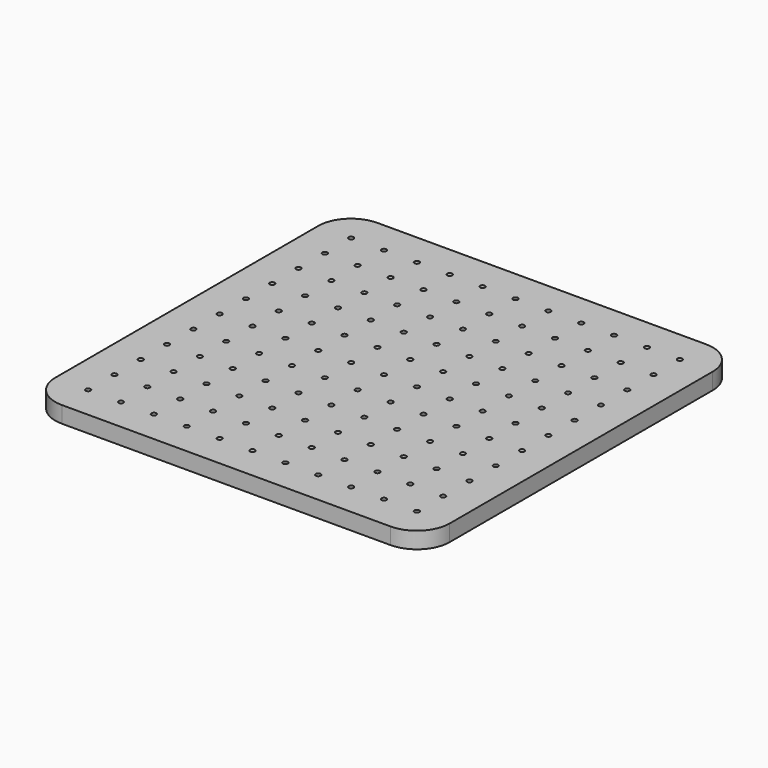
from build123d import *

# Parameters (mm, degrees)
F0_R     = 1.905
F1_DEPTH = 12.7


with BuildPart() as f1:
    # F0 (on Top) → F1 (new body)
    with BuildSketch(Plane.XY):
        with BuildLine():
            ThreePointArc((152.4, 127), (144.960512, 144.960512), (127, 152.4))
            Line((127, 152.4), (-127, 152.4))
            ThreePointArc((-127, 152.4), (-144.960512, 144.960512), (-152.4, 127))
            Line((-152.4, 127), (-152.4, -127))
            ThreePointArc((-152.4, -127), (-144.960512, -144.960512), (-127, -152.4))
            Line((-127, -152.4), (127, -152.4))
            ThreePointArc((127, -152.4), (144.960512, -144.960512), (152.4, -127))
            Line((152.4, -127), (152.4, 127))
        make_face()
        with Locations((-127, -127)):
            Circle(F0_R, mode=Mode.SUBTRACT)
        with Locations((-101.6, -127)):
            Circle(F0_R, mode=Mode.SUBTRACT)
        with Locations((-127, -101.6)):
            Circle(F0_R, mode=Mode.SUBTRACT)
        with Locations((-101.6, -101.6)):
            Circle(F0_R, mode=Mode.SUBTRACT)
        with Locations((-76.2, -127)):
            Circle(F0_R, mode=Mode.SUBTRACT)
        with Locations((-50.8, -127)):
            Circle(F0_R, mode=Mode.SUBTRACT)
        with Locations((-25.4, -127)):
            Circle(F0_R, mode=Mode.SUBTRACT)
        with Locations((-76.2, -101.6)):
            Circle(F0_R, mode=Mode.SUBTRACT)
        with Locations((-50.8, -101.6)):
            Circle(F0_R, mode=Mode.SUBTRACT)
        with Locations((-25.4, -101.6)):
            Circle(F0_R, mode=Mode.SUBTRACT)
        with Locations((-127, -76.2)):
            Circle(F0_R, mode=Mode.SUBTRACT)
        with Locations((-127, -50.8)):
            Circle(F0_R, mode=Mode.SUBTRACT)
        with Locations((-101.6, -76.2)):
            Circle(F0_R, mode=Mode.SUBTRACT)
        with Locations((-101.6, -50.8)):
            Circle(F0_R, mode=Mode.SUBTRACT)
        with Locations((-127, -25.4)):
            Circle(F0_R, mode=Mode.SUBTRACT)
        with Locations((-101.6, -25.4)):
            Circle(F0_R, mode=Mode.SUBTRACT)
        with Locations((-76.2, -76.2)):
            Circle(F0_R, mode=Mode.SUBTRACT)
        with Locations((-50.8, -76.2)):
            Circle(F0_R, mode=Mode.SUBTRACT)
        with Locations((-76.2, -50.8)):
            Circle(F0_R, mode=Mode.SUBTRACT)
        with Locations((-50.8, -50.8)):
            Circle(F0_R, mode=Mode.SUBTRACT)
        with Locations((-25.4, -76.2)):
            Circle(F0_R, mode=Mode.SUBTRACT)
        with Locations((-25.4, -50.8)):
            Circle(F0_R, mode=Mode.SUBTRACT)
        with Locations((-76.2, -25.4)):
            Circle(F0_R, mode=Mode.SUBTRACT)
        with Locations((-50.8, -25.4)):
            Circle(F0_R, mode=Mode.SUBTRACT)
        with Locations((-25.4, -25.4)):
            Circle(F0_R, mode=Mode.SUBTRACT)
        with Locations((0, -127)):
            Circle(F0_R, mode=Mode.SUBTRACT)
        with Locations((25.4, -127)):
            Circle(F0_R, mode=Mode.SUBTRACT)
        with Locations((50.8, -127)):
            Circle(F0_R, mode=Mode.SUBTRACT)
        with Locations((0, -101.6)):
            Circle(F0_R, mode=Mode.SUBTRACT)
        with Locations((25.4, -101.6)):
            Circle(F0_R, mode=Mode.SUBTRACT)
        with Locations((50.8, -101.6)):
            Circle(F0_R, mode=Mode.SUBTRACT)
        with Locations((76.2, -127)):
            Circle(F0_R, mode=Mode.SUBTRACT)
        with Locations((101.6, -127)):
            Circle(F0_R, mode=Mode.SUBTRACT)
        with Locations((127, -127)):
            Circle(F0_R, mode=Mode.SUBTRACT)
        with Locations((76.2, -101.6)):
            Circle(F0_R, mode=Mode.SUBTRACT)
        with Locations((101.6, -101.6)):
            Circle(F0_R, mode=Mode.SUBTRACT)
        with Locations((127, -101.6)):
            Circle(F0_R, mode=Mode.SUBTRACT)
        with Locations((0, -76.2)):
            Circle(F0_R, mode=Mode.SUBTRACT)
        with Locations((25.4, -76.2)):
            Circle(F0_R, mode=Mode.SUBTRACT)
        with Locations((0, -50.8)):
            Circle(F0_R, mode=Mode.SUBTRACT)
        with Locations((25.4, -50.8)):
            Circle(F0_R, mode=Mode.SUBTRACT)
        with Locations((50.8, -76.2)):
            Circle(F0_R, mode=Mode.SUBTRACT)
        with Locations((50.8, -50.8)):
            Circle(F0_R, mode=Mode.SUBTRACT)
        with Locations((0, -25.4)):
            Circle(F0_R, mode=Mode.SUBTRACT)
        with Locations((25.4, -25.4)):
            Circle(F0_R, mode=Mode.SUBTRACT)
        with Locations((50.8, -25.4)):
            Circle(F0_R, mode=Mode.SUBTRACT)
        with Locations((76.2, -76.2)):
            Circle(F0_R, mode=Mode.SUBTRACT)
        with Locations((101.6, -76.2)):
            Circle(F0_R, mode=Mode.SUBTRACT)
        with Locations((76.2, -50.8)):
            Circle(F0_R, mode=Mode.SUBTRACT)
        with Locations((101.6, -50.8)):
            Circle(F0_R, mode=Mode.SUBTRACT)
        with Locations((127, -76.2)):
            Circle(F0_R, mode=Mode.SUBTRACT)
        with Locations((127, -50.8)):
            Circle(F0_R, mode=Mode.SUBTRACT)
        with Locations((76.2, -25.4)):
            Circle(F0_R, mode=Mode.SUBTRACT)
        with Locations((101.6, -25.4)):
            Circle(F0_R, mode=Mode.SUBTRACT)
        with Locations((127, -25.4)):
            Circle(F0_R, mode=Mode.SUBTRACT)
        with Locations((-127, 0)):
            Circle(F0_R, mode=Mode.SUBTRACT)
        with Locations((-127, 25.4)):
            Circle(F0_R, mode=Mode.SUBTRACT)
        with Locations((-101.6, 0)):
            Circle(F0_R, mode=Mode.SUBTRACT)
        with Locations((-101.6, 25.4)):
            Circle(F0_R, mode=Mode.SUBTRACT)
        with Locations((-127, 50.8)):
            Circle(F0_R, mode=Mode.SUBTRACT)
        with Locations((-127, 76.2)):
            Circle(F0_R, mode=Mode.SUBTRACT)
        with Locations((-101.6, 50.8)):
            Circle(F0_R, mode=Mode.SUBTRACT)
        with Locations((-101.6, 76.2)):
            Circle(F0_R, mode=Mode.SUBTRACT)
        with Locations((-76.2, 0)):
            Circle(F0_R, mode=Mode.SUBTRACT)
        with Locations((-50.8, 0)):
            Circle(F0_R, mode=Mode.SUBTRACT)
        with Locations((-76.2, 25.4)):
            Circle(F0_R, mode=Mode.SUBTRACT)
        with Locations((-50.8, 25.4)):
            Circle(F0_R, mode=Mode.SUBTRACT)
        with Locations((-25.4, 0)):
            Circle(F0_R, mode=Mode.SUBTRACT)
        with Locations((-25.4, 25.4)):
            Circle(F0_R, mode=Mode.SUBTRACT)
        with Locations((-76.2, 50.8)):
            Circle(F0_R, mode=Mode.SUBTRACT)
        with Locations((-50.8, 50.8)):
            Circle(F0_R, mode=Mode.SUBTRACT)
        with Locations((-76.2, 76.2)):
            Circle(F0_R, mode=Mode.SUBTRACT)
        with Locations((-50.8, 76.2)):
            Circle(F0_R, mode=Mode.SUBTRACT)
        with Locations((-25.4, 50.8)):
            Circle(F0_R, mode=Mode.SUBTRACT)
        with Locations((-25.4, 76.2)):
            Circle(F0_R, mode=Mode.SUBTRACT)
        with Locations((-127, 101.6)):
            Circle(F0_R, mode=Mode.SUBTRACT)
        with Locations((-101.6, 101.6)):
            Circle(F0_R, mode=Mode.SUBTRACT)
        with Locations((-127, 127)):
            Circle(F0_R, mode=Mode.SUBTRACT)
        with Locations((-101.6, 127)):
            Circle(F0_R, mode=Mode.SUBTRACT)
        with Locations((-76.2, 101.6)):
            Circle(F0_R, mode=Mode.SUBTRACT)
        with Locations((-50.8, 101.6)):
            Circle(F0_R, mode=Mode.SUBTRACT)
        with Locations((-25.4, 101.6)):
            Circle(F0_R, mode=Mode.SUBTRACT)
        with Locations((-76.2, 127)):
            Circle(F0_R, mode=Mode.SUBTRACT)
        with Locations((-50.8, 127)):
            Circle(F0_R, mode=Mode.SUBTRACT)
        with Locations((-25.4, 127)):
            Circle(F0_R, mode=Mode.SUBTRACT)
        Circle(F0_R, mode=Mode.SUBTRACT)
        with Locations((25.4, 0)):
            Circle(F0_R, mode=Mode.SUBTRACT)
        with Locations((0, 25.4)):
            Circle(F0_R, mode=Mode.SUBTRACT)
        with Locations((25.4, 25.4)):
            Circle(F0_R, mode=Mode.SUBTRACT)
        with Locations((50.8, 0)):
            Circle(F0_R, mode=Mode.SUBTRACT)
        with Locations((50.8, 25.4)):
            Circle(F0_R, mode=Mode.SUBTRACT)
        with Locations((0, 50.8)):
            Circle(F0_R, mode=Mode.SUBTRACT)
        with Locations((25.4, 50.8)):
            Circle(F0_R, mode=Mode.SUBTRACT)
        with Locations((0, 76.2)):
            Circle(F0_R, mode=Mode.SUBTRACT)
        with Locations((25.4, 76.2)):
            Circle(F0_R, mode=Mode.SUBTRACT)
        with Locations((50.8, 50.8)):
            Circle(F0_R, mode=Mode.SUBTRACT)
        with Locations((50.8, 76.2)):
            Circle(F0_R, mode=Mode.SUBTRACT)
        with Locations((76.2, 0)):
            Circle(F0_R, mode=Mode.SUBTRACT)
        with Locations((101.6, 0)):
            Circle(F0_R, mode=Mode.SUBTRACT)
        with Locations((76.2, 25.4)):
            Circle(F0_R, mode=Mode.SUBTRACT)
        with Locations((101.6, 25.4)):
            Circle(F0_R, mode=Mode.SUBTRACT)
        with Locations((127, 0)):
            Circle(F0_R, mode=Mode.SUBTRACT)
        with Locations((127, 25.4)):
            Circle(F0_R, mode=Mode.SUBTRACT)
        with Locations((76.2, 50.8)):
            Circle(F0_R, mode=Mode.SUBTRACT)
        with Locations((101.6, 50.8)):
            Circle(F0_R, mode=Mode.SUBTRACT)
        with Locations((76.2, 76.2)):
            Circle(F0_R, mode=Mode.SUBTRACT)
        with Locations((101.6, 76.2)):
            Circle(F0_R, mode=Mode.SUBTRACT)
        with Locations((127, 50.8)):
            Circle(F0_R, mode=Mode.SUBTRACT)
        with Locations((127, 76.2)):
            Circle(F0_R, mode=Mode.SUBTRACT)
        with Locations((0, 101.6)):
            Circle(F0_R, mode=Mode.SUBTRACT)
        with Locations((25.4, 101.6)):
            Circle(F0_R, mode=Mode.SUBTRACT)
        with Locations((50.8, 101.6)):
            Circle(F0_R, mode=Mode.SUBTRACT)
        with Locations((0, 127)):
            Circle(F0_R, mode=Mode.SUBTRACT)
        with Locations((25.4, 127)):
            Circle(F0_R, mode=Mode.SUBTRACT)
        with Locations((50.8, 127)):
            Circle(F0_R, mode=Mode.SUBTRACT)
        with Locations((76.2, 101.6)):
            Circle(F0_R, mode=Mode.SUBTRACT)
        with Locations((101.6, 101.6)):
            Circle(F0_R, mode=Mode.SUBTRACT)
        with Locations((127, 101.6)):
            Circle(F0_R, mode=Mode.SUBTRACT)
        with Locations((76.2, 127)):
            Circle(F0_R, mode=Mode.SUBTRACT)
        with Locations((101.6, 127)):
            Circle(F0_R, mode=Mode.SUBTRACT)
        with Locations((127, 127)):
            Circle(F0_R, mode=Mode.SUBTRACT)
    extrude(amount=-F1_DEPTH)


solid = f1.part
